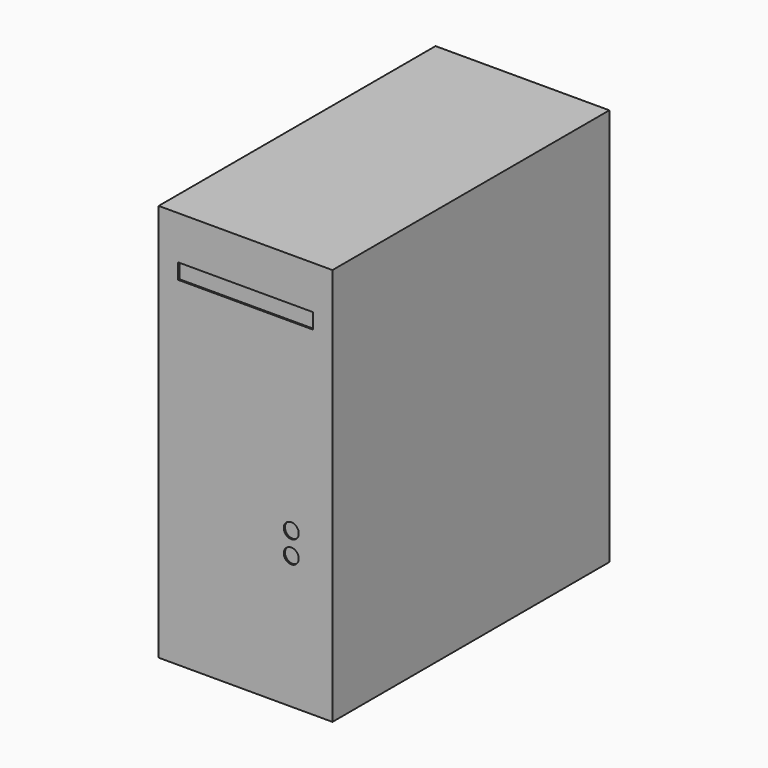
from build123d import *

# Parameters (mm, degrees)
F0_W     = 232
F0_H     = 531
F1_DEPTH = 462
F2_W     = 180.069946
F2_H     = 20.625591
F2_R     = 10
F3_DEPTH = 2


with BuildPart() as f1:
    # F0 (on Front) → F1 (new body)
    with BuildSketch(Plane.XZ):
        with Locations((116, 265.5)):
            Rectangle(F0_W, F0_H)
    extrude(amount=F1_DEPTH)

    # F2 (on face) → F3 (cut)
    with BuildSketch(Plane.XZ.offset(462)):
        with Locations((116, 462.845355)):
            Rectangle(F2_W, F2_H)
        with Locations((177, 206.843048)):
            Circle(F2_R)
        with Locations((177, 177.192792)):
            Circle(F2_R)
    extrude(amount=-F3_DEPTH, mode=Mode.SUBTRACT)


solid = f1.part
